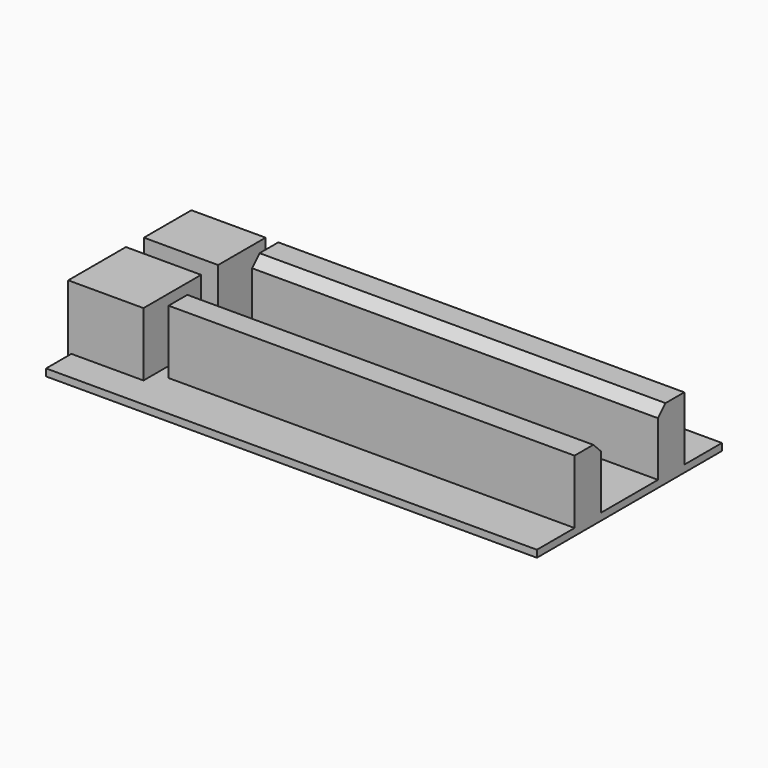
from build123d import *

# Parameters (mm, degrees)
F0_W     = 15.2882066071
F0_H     = 15.2716501616
F0_H_2   = 12.5766545534
F0_W_2   = 86.0167954564
F0_H_3   = 6.9620762952
F1_DEPTH = 1.5
F0_W_3   = 0.6571944356
F0_W_4   = 0.4326078594
F2_DEPTH = 15
F3_SIZE  = 2


with BuildPart() as f1:
    # F0 (on Top) → F1 (new body)
    with BuildSketch(Plane.XY):
        Polygon((52, 14.529729262), (52, 24.5), (-52, 24.5), (-52, 14.529729262), (-36.7117933929, 14.529729262), (-36.7117933929, 1.9530747086), (-52, 1.9530747086), (-52, -2.5385871995), (-36.7117933929, -2.5385871995), (-36.7117933929, -17.8102373611), (-52, -17.8102373611), (-52, -24.5), (52, -24.5), (52, -14.529729262), (-34.0167954564, -14.529729262), (-34.0167954564, -7.5676529668), (52, -7.5676529668), (52, 7.5676529668), (-34.0167954564, 7.5676529668), (-34.0167954564, 14.529729262), align=None)
        with Locations((-44.3558966964, -10.1744122803)):
            Rectangle(F0_W, F0_H)
        with Locations((-44.3558966964, 8.2414019853)):
            Rectangle(F0_W, F0_H_2)
        with Locations((8.9916022718, 11.0486911144)):
            Rectangle(F0_W_2, F0_H_3)
        with Locations((8.9916022718, -11.0486911144)):
            Rectangle(F0_W_2, F0_H_3)
    extrude(amount=F1_DEPTH)

    # F0 (on Top) → F2 (join)
    with BuildSketch(Plane.XY):
        with Locations((-44.3558966964, 8.2414019853)):
            Rectangle(F0_W, F0_H_2)
        with Locations((-44.3558966964, -10.1744122803)):
            Rectangle(F0_W, F0_H)
        with Locations((-52.3285972178, -10.1744122803)):
            Rectangle(F0_W_3, F0_H)
        with Locations((-52.2163039297, 8.2414019853)):
            Rectangle(F0_W_4, F0_H_2)
        with Locations((8.9916022718, 11.0486911144)):
            Rectangle(F0_W_2, F0_H_3)
        with Locations((8.9916022718, -11.0486911144)):
            Rectangle(F0_W_2, F0_H_3)
    extrude(amount=F2_DEPTH)

    # F3
    f3_edges = [f1.edges().sort_by_distance(p)[0] for p in [
        (8.991602, -7.567653, 15),
        (8.991602, 7.567653, 15),
    ]]
    chamfer(f3_edges, length=F3_SIZE)


solid = f1.part
